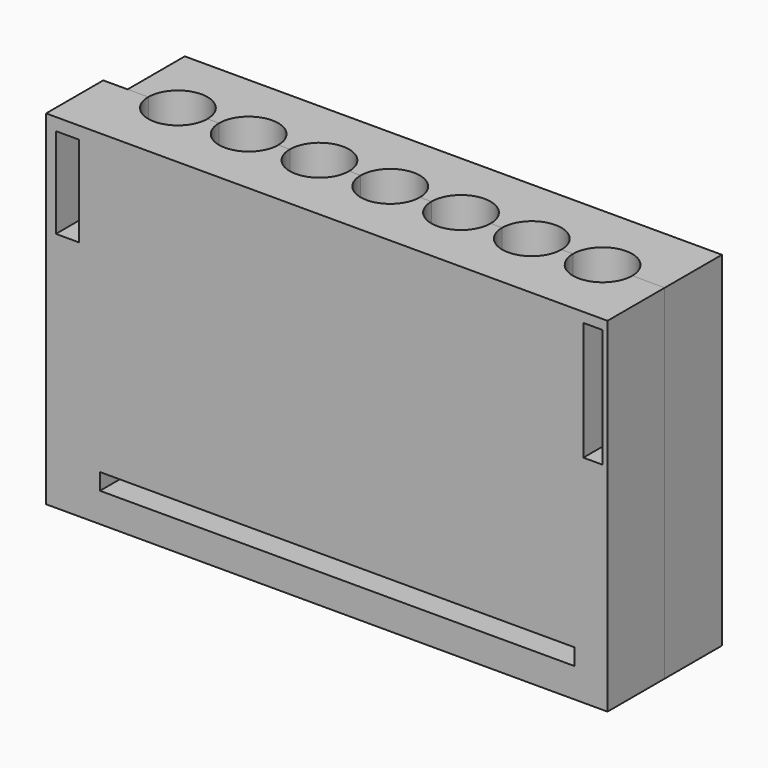
from build123d import *

# Parameters (mm, degrees)
F0_W      = 190.8158659935
F0_H      = 122.2459543496
F1_DEPTH  = 25.4
F3_DEPTH  = 99.06
F6_W      = 168.649494648
F6_H      = 5.8652460575
F7_DEPTH  = 25.4
F8_DEPTH  = 8.636
F9_W      = 6.7271590233
F9_H      = 42.1485826373
F9_W_2    = 8.2633495331
F9_H_2    = 32.1369692683
F10_DEPTH = 25.4


with BuildPart() as f1:
    # F0 (on Front) → F1 (new body)
    with BuildSketch(Plane.XZ):
        with Locations((3.766104579, 50.6741991267)):
            Rectangle(F0_W, F0_H)
    extrude(amount=F1_DEPTH)

    # F2 (on face) → F3 (cut)
    with BuildSketch(Plane.XY.offset(111.7971763015)):
        with BuildLine():
            Line((-84.2879353085, -25.4), (-63.2479401312, -25.4))
            ThreePointArc((-63.2479401312, -25.4), (-73.7679377198, -14.8800024114), (-84.2879353085, -25.4))
        make_face()
        with BuildLine():
            ThreePointArc((-38.1019401312, -25.4), (-48.6219377198, -14.8800024114), (-59.1419353085, -25.4))
            Line((-59.1419353085, -25.4), (-38.1019401312, -25.4))
        make_face()
        with BuildLine():
            ThreePointArc((-12.9559401312, -25.4), (-23.4759377198, -14.8800024114), (-33.9959353085, -25.4))
            Line((-33.9959353085, -25.4), (-12.9559401312, -25.4))
        make_face()
        with BuildLine():
            ThreePointArc((12.1900598688, -25.4), (1.6700622802, -14.8800024114), (-8.8499353085, -25.4))
            Line((-8.8499353085, -25.4), (12.1900598688, -25.4))
        make_face()
        with BuildLine():
            ThreePointArc((37.3360598688, -25.4), (26.8160622802, -14.8800024114), (16.2960646915, -25.4))
            Line((16.2960646915, -25.4), (37.3360598688, -25.4))
        make_face()
        with BuildLine():
            Line((66.5880646915, -25.4), (87.6280598688, -25.4))
            ThreePointArc((87.6280598688, -25.4), (77.1080622802, -14.8800024114), (66.5880646915, -25.4))
        make_face()
        with BuildLine():
            Line((41.4420646915, -25.4), (62.4820598688, -25.4))
            ThreePointArc((62.4820598688, -25.4), (51.9620622802, -14.8800024114), (41.4420646915, -25.4))
        make_face()
    extrude(amount=-F3_DEPTH, mode=Mode.SUBTRACT)


with BuildPart() as f5_1:
    # F5: instance of F1
    add(f1.part.mirror(Plane.XZ.offset(25.4)))

    # F6 (on face) → F7 (cut)
    with BuildSketch(Plane(origin=(0, -25.4, 0), x_dir=(-1, 0, 0), z_dir=(0, 1, 0))):
        with Locations((-3.1935498118, 2.9326230288)):
            Rectangle(F6_W, F6_H)
    extrude(amount=-F7_DEPTH, mode=Mode.SUBTRACT)

    # F8 (add): a face of the model
    f8_faces = [f5_1.faces().sort_by_distance(p)[0] for p in [
        (-91.6418284178, -38.1, 50.6741991267),
    ]]
    extrude(f8_faces, amount=F8_DEPTH)

    # F9 (on face) → F10 (cut)
    with BuildSketch(Plane(origin=(0, -25.4, 0), x_dir=(-1, 0, 0), z_dir=(0, 1, 0))):
        with Locations((-93.961365521, 87.2773639858)):
            Rectangle(F9_W, F9_H)
        with Locations((92.6653891802, 91.3156010211)):
            Rectangle(F9_W_2, F9_H_2)
    extrude(amount=-F10_DEPTH, mode=Mode.SUBTRACT)


solid = Compound([f1.part, f5_1.part])
